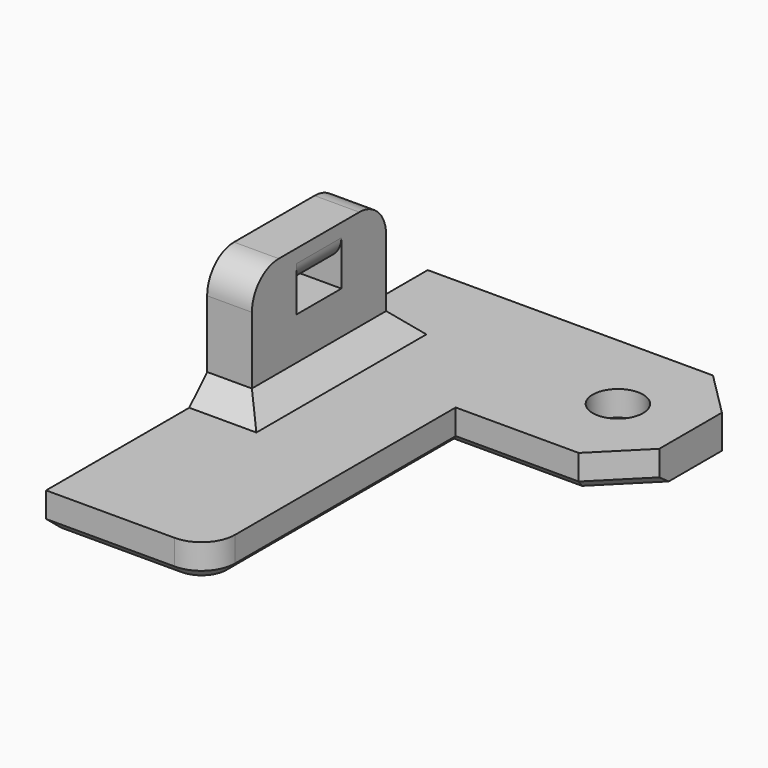
from build123d import *

# Parameters (mm, degrees)
SKETCH_R        = 2.25
PAD_DEPTH       = 3
SKETCH001_W     = 4
SKETCH001_H     = 15
PAD001_DEPTH    = 11
SKETCH002_W     = 5
SKETCH002_H     = 2
POCKET_DEPTH    = 29.501
FILLET_R        = 3
FILLET001_R     = 2
CHAMFER_SIZE    = 0.75
CHAMFER001_SIZE = 2


with BuildPart() as chamfer001:
    # Sketch → Pad (new body)
    with BuildSketch(Plane.XY):
        Polygon((0, 42.65), (-25.5, 42.65), (-29.5, 38.65), (-29.5, 31.65), (-25.5, 27.65), (-14.5, 27.65), (-14.5, 0), (0, 0), align=None)
        with Locations((-23, 35.15)):
            Circle(SKETCH_R, mode=Mode.SUBTRACT)
    extrude(amount=PAD_DEPTH)

    # Sketch001 → Pad001 (new body)
    with BuildSketch(Plane.XY.offset(3)):
        with Locations((-2, 25.5)):
            Rectangle(SKETCH001_W, SKETCH001_H)
    extrude(amount=PAD001_DEPTH)

    # Sketch002 → Pocket (cut, through all)
    with BuildSketch(Plane.YZ):
        with Locations((25.5, 9.8)):
            Rectangle(SKETCH002_W, SKETCH002_H)
    extrude(amount=-POCKET_DEPTH, mode=Mode.SUBTRACT)

    # Fillet
    fillet_edges = [chamfer001.edges().sort_by_distance(p)[0] for p in [
        (-2, 18, 14),
        (-2, 33, 14),
        (-14.5, 0, 1.5),
    ]]
    fillet(fillet_edges, radius=FILLET_R)

    # Fillet001
    fillet001_edges = [chamfer001.edges().sort_by_distance(p)[0] for p in [
        (-4, 25.5, 10.8),
    ]]
    fillet(fillet001_edges, radius=FILLET001_R)

    # Chamfer
    chamfer_edges = [chamfer001.edges().sort_by_distance(p)[0] for p in [
        (0, 21.325, 0),
        (-5.75, 0, 0),
        (-13.62132, 0.87868, 0),
        (-14.5, 15.325, 0),
        (-20, 27.65, 0),
        (-27.5, 29.65, 0),
        (-25.25, 35.15, 0),
    ]]
    chamfer(chamfer_edges, length=CHAMFER_SIZE)

    # Chamfer001
    chamfer001_edges = [chamfer001.edges().sort_by_distance(p)[0] for p in [
        (-2, 18, 3),
        (-4, 25.5, 3),
        (-2, 33, 3),
    ]]
    chamfer(chamfer001_edges, length=CHAMFER001_SIZE)


with BuildPart() as part_mirroring:
    # Part__Mirroring: instance of Chamfer001
    add(chamfer001.part.mirror(Plane(origin=(0, 0, 0), x_dir=(0, -1, 0), z_dir=(1, 0, 0))))


solid = part_mirroring.part
